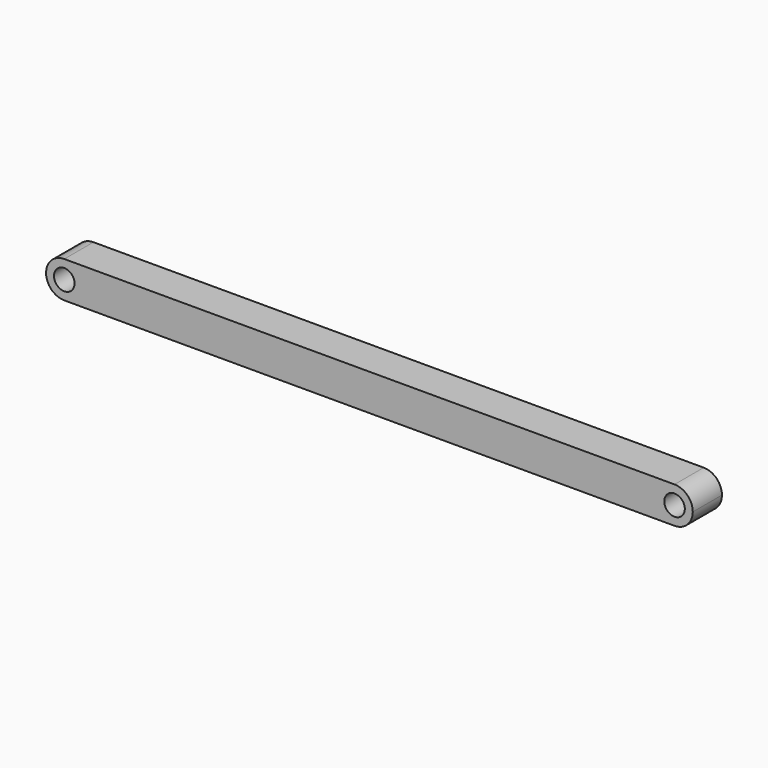
from build123d import *

# Parameters (mm, degrees)
F0_R     = 7.1501
F1_DEPTH = 25.4


with BuildPart() as f1:
    # F0 (on Front) → F1 (new body)
    with BuildSketch(Plane.XZ):
        with BuildLine():
            ThreePointArc((0, 12.7), (8.980256, 8.980256), (12.7, 0))
            ThreePointArc((12.7, 0), (8.980256, -8.980256), (0, -12.7))
            Line((0, -12.7), (425.45, -12.7))
            ThreePointArc((425.45, -12.7), (412.75, 0), (425.45, 12.7))
            Line((425.45, 12.7), (0, 12.7))
        make_face()
        with BuildLine():
            ThreePointArc((0, -12.7), (8.980256, -8.980256), (12.7, 0))
            ThreePointArc((12.7, 0), (8.980256, 8.980256), (0, 12.7))
            ThreePointArc((0, 12.7), (-12.7, 0), (0, -12.7))
        make_face()
        Circle(F0_R, mode=Mode.SUBTRACT)
        with BuildLine():
            ThreePointArc((438.15, 0), (434.430256, 8.980256), (425.45, 12.7))
            ThreePointArc((425.45, 12.7), (412.75, 0), (425.45, -12.7))
            ThreePointArc((425.45, -12.7), (434.430256, -8.980256), (438.15, 0))
        make_face()
        with Locations((425.45, 0)):
            Circle(F0_R, mode=Mode.SUBTRACT)
    extrude(amount=F1_DEPTH)


solid = f1.part
